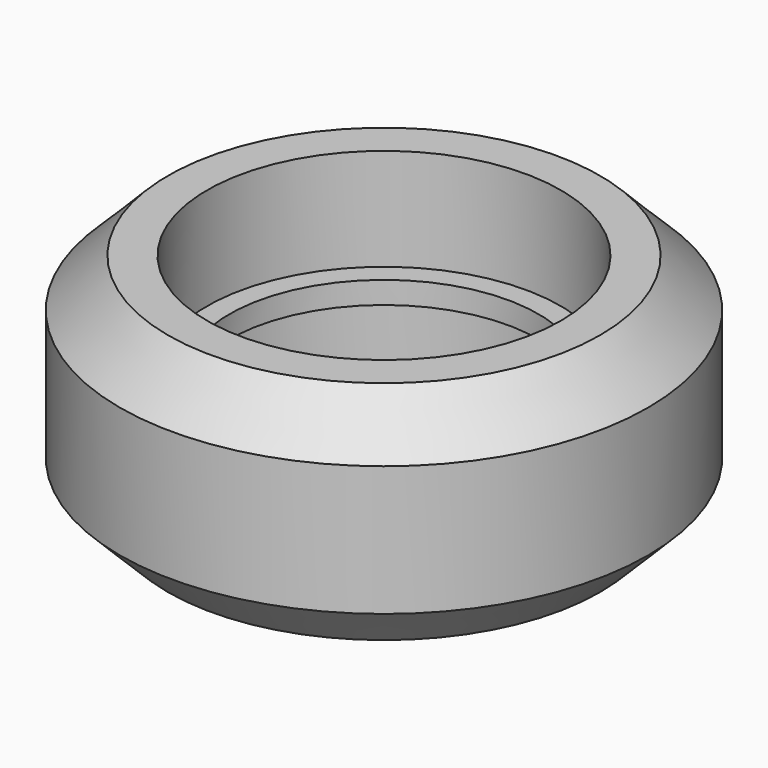
from build123d import *

# Parameters (mm, degrees)
F2_R          = 8
F3_DEPTH      = 5.116
F3_DEPTH_BACK = 5.116
F4_R          = 8
F4_R_2        = 7
F5_DEPTH      = 0.5


with BuildPart() as f1:
    # F0 (on Front) → F1 (revolve)
    with BuildSketch(Plane.XZ):
        Polygon((9.77, 5.115), (0, 5.115), (0, -5.115), (9.77, -5.115), (11.945, -2.94), (11.945, 2.94), align=None)
    revolve(axis=Axis((0, 0, 0), (0, 0, -1)))

    # F2 (on Top) → F3 (cut, two sides)
    with BuildSketch(Plane.XY) as f3_sk:
        Circle(F2_R)
    extrude(amount=-F3_DEPTH, mode=Mode.SUBTRACT)
    extrude(f3_sk.sketch, amount=F3_DEPTH_BACK, mode=Mode.SUBTRACT)

    # F4 (on Top) → F5 (join, symmetric)
    with BuildSketch(Plane.XY):
        Circle(F4_R)
        Circle(F4_R_2, mode=Mode.SUBTRACT)
    extrude(amount=F5_DEPTH, both=True)


solid = f1.part
